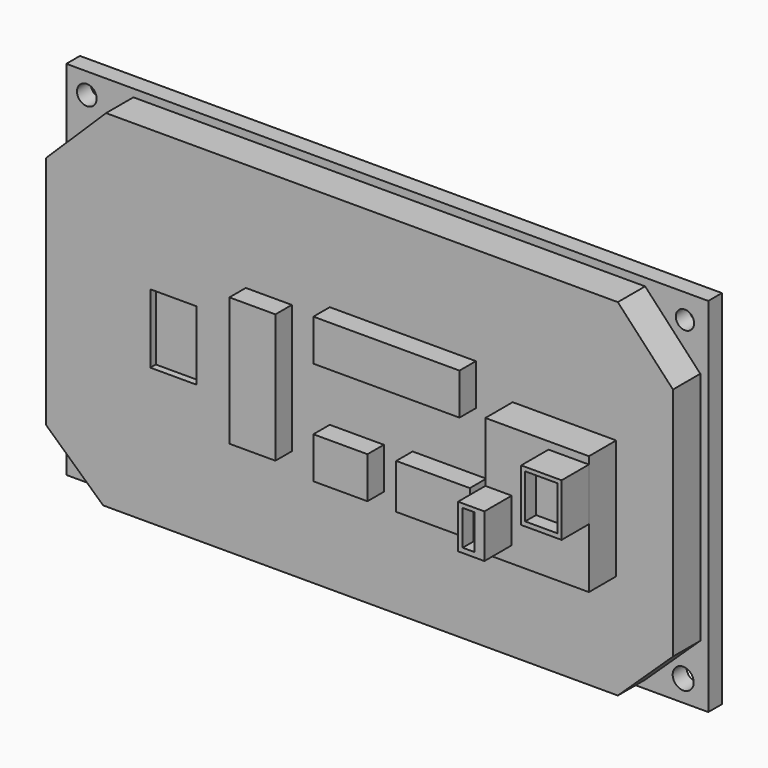
from build123d import *

# Parameters (mm, degrees)
F0_W      = 188
F0_H      = 106
F1_DEPTH  = 5
F3_DEPTH  = 10
F4_R      = 2.877723
F4_R_2    = 3.098338
F4_R_3    = 3.080854
F4_R_4    = 2.682981
F5_DEPTH  = 25
F6_W      = 13.476193
F6_H      = 20.214289
F7_DEPTH  = 2
F6_H_2    = 37.733339
F6_W_2    = 15.834533
F6_H_3    = 12.128577
F6_W_3    = 21.561905
F6_H_4    = 13.139285
F8_DEPTH  = 6
F6_W_4    = 30.321434
F6_H_5    = 35.038095
F9_DEPTH  = 10
F10_W     = 11.828035
F10_H     = 15.372609
F10_W_2   = 7.715762
F10_H_2   = 12.800521
F11_DEPTH = 10
F12_W     = 9.468928
F12_H     = 12.915805
F13_DEPTH = 4
F14_W     = 3.46078
F14_H     = 10.265284
F15_DEPTH = 4


with BuildPart() as f1:
    # F0 (on Front) → F1 (new body)
    with BuildSketch(Plane.XZ):
        with Locations((-123.036315, 76.903633)):
            Rectangle(F0_W, F0_H)
    extrude(amount=F1_DEPTH)

    # F2 (on face) → F3 (join)
    with BuildSketch(Plane.XZ.offset(5)):
        Polygon((-47.522057, 127.648577), (-197.388828, 127.648577), (-214.953557, 110.367149), (-214.953557, 41.52476), (-198.23873, 26.226448), (-47.522057, 26.226448), (-31.373844, 41.52476), (-31.373844, 110.367149), align=None)
    extrude(amount=F3_DEPTH)

    # F4 (on face) → F5 (cut)
    with BuildSketch(Plane.XZ.offset(5)):
        with Locations((-211.029306, 123.802513)):
            Circle(F4_R)
        with Locations((-211.646155, 30.456685)):
            Circle(F4_R_2)
        with Locations((-36.373071, 30.164568)):
            Circle(F4_R_3)
        with Locations((-35.86828, 122.792944)):
            Circle(F4_R_4)
    extrude(amount=-F5_DEPTH, mode=Mode.SUBTRACT)

    # F6 (on face) → F7 (cut)
    with BuildSketch(Plane.XZ.offset(15)):
        with Locations((-177.695751, 76.344832)):
            Rectangle(F6_W, F6_H)
    extrude(amount=-F7_DEPTH, mode=Mode.SUBTRACT)

    # F6 (on face) → F8 (join)
    with BuildSketch(Plane.XZ.offset(15)):
        with Locations((-149.732649, 77.018644)):
            Rectangle(F6_W, F6_H_2)
        Polygon((-124.801703, 98.917454), (-131.876707, 98.917454), (-131.876707, 94.53769), (-131.876707, 86.788885), (-89.089796, 86.788885), (-89.089796, 98.917454), align=None)
        with Locations((-123.95944, 62.53174)):
            Rectangle(F6_W_2, F6_H_3)
        with Locations((-96.838608, 63.037093)):
            Rectangle(F6_W_3, F6_H_4)
    extrude(amount=F8_DEPTH)

    # F6 (on face) → F9 (join)
    with BuildSketch(Plane.XZ.offset(15)):
        with Locations((-63.148126, 74.323403)):
            Rectangle(F6_W_4, F6_H_5)
    extrude(amount=F9_DEPTH)

    # F10 (on face) → F11 (join)
    with BuildSketch(Plane.XZ.offset(25)):
        with Locations((-53.901426, 82.009707)):
            Rectangle(F10_W, F10_H)
        with Locations((-74.450962, 67.923142)):
            Rectangle(F10_W_2, F10_H_2)
    extrude(amount=F11_DEPTH)

    # F12 (on face) → F13 (cut)
    with BuildSketch(Plane.XZ.offset(35)):
        with Locations((-53.934842, 82.085251)):
            Rectangle(F12_W, F12_H)
    extrude(amount=-F13_DEPTH, mode=Mode.SUBTRACT)

    # F14 (on face) → F15 (cut)
    with BuildSketch(Plane.XZ.offset(35)):
        with Locations((-75.223997, 68.030607)):
            Rectangle(F14_W, F14_H)
    extrude(amount=-F15_DEPTH, mode=Mode.SUBTRACT)


solid = f1.part
